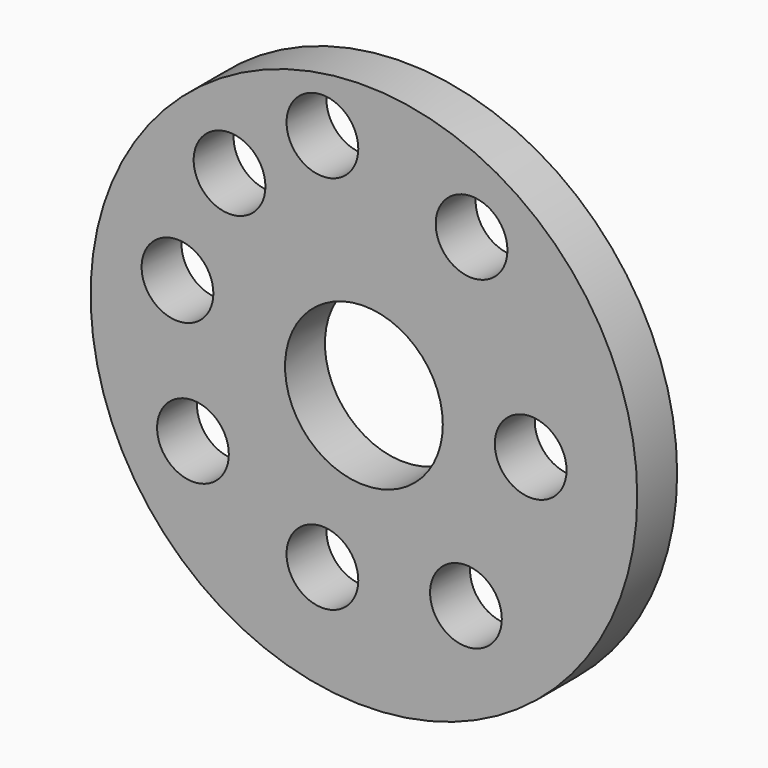
from build123d import *

# Parameters (mm, degrees)
F0_R     = 38.1
F0_R_2   = 5
F0_R_3   = 10.995
F1_DEPTH = 6.95


with BuildPart() as f1:
    # F0 (on Front) → F1 (new body)
    with BuildSketch(Plane.XZ):
        Circle(F0_R)
        with Locations((-5.786114, -22.948321)):
            Circle(F0_R_2, mode=Mode.SUBTRACT)
        with Locations((-23.830947, -13.337485)):
            Circle(F0_R_2, mode=Mode.SUBTRACT)
        with Locations((14.220112, -21.183064)):
            Circle(F0_R_2, mode=Mode.SUBTRACT)
        with Locations((-25.988482, 5.688045)):
            Circle(F0_R_2, mode=Mode.SUBTRACT)
        with Locations((-18.73132, 21.183064)):
            Circle(F0_R_2, mode=Mode.SUBTRACT)
        with Locations((-5.786114, 30.00934)):
            Circle(F0_R_2, mode=Mode.SUBTRACT)
        Circle(F0_R_3, mode=Mode.SUBTRACT)
        with Locations((23.242528, 0)):
            Circle(F0_R_2, mode=Mode.SUBTRACT)
        with Locations((15.004669, 24.321297)):
            Circle(F0_R_2, mode=Mode.SUBTRACT)
    extrude(amount=F1_DEPTH)


solid = f1.part
